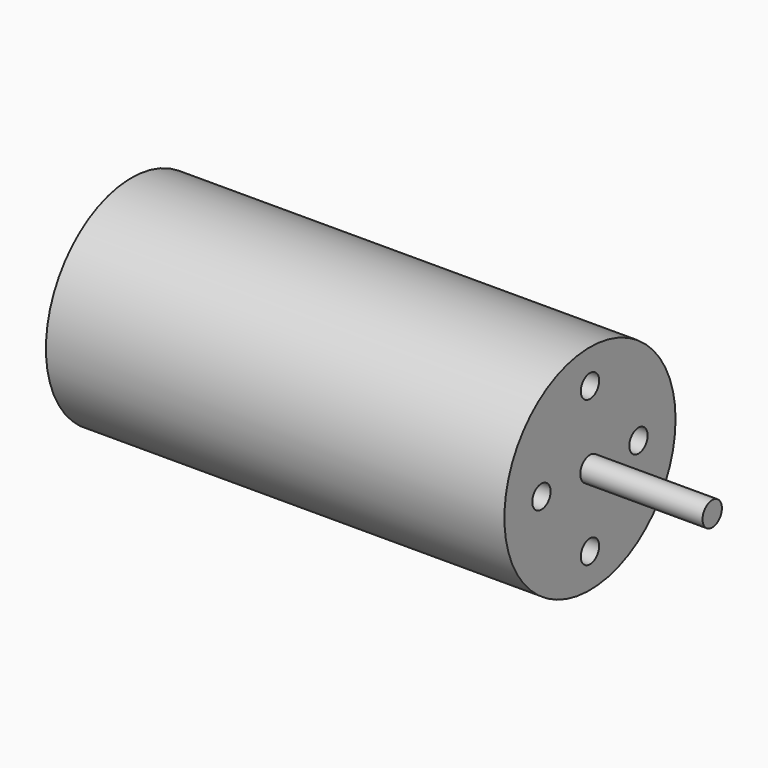
from build123d import *

# Parameters (mm, degrees)
F0_R     = 14
F1_DEPTH = 60
F2_R     = 1.5875
F3_DEPTH = 16
F4_R     = 1.5
F5_DEPTH = 6


with BuildPart() as f1:
    # F0 (on Right) → F1 (new body)
    with BuildSketch(Plane.YZ):
        Circle(F0_R)
    extrude(amount=-F1_DEPTH)

    # F2 (on face) → F3 (join)
    with BuildSketch(Plane.YZ):
        Circle(F2_R)
    extrude(amount=F3_DEPTH)

    # F4 (on face) → F5 (cut)
    with BuildSketch(Plane.YZ):
        with Locations((0, 9.525)):
            Circle(F4_R)
        with Locations((7.9375, 0)):
            Circle(F4_R)
        with Locations((0, -9.525)):
            Circle(F4_R)
        with Locations((-7.9375, 0)):
            Circle(F4_R)
    extrude(amount=-F5_DEPTH, mode=Mode.SUBTRACT)


solid = f1.part
